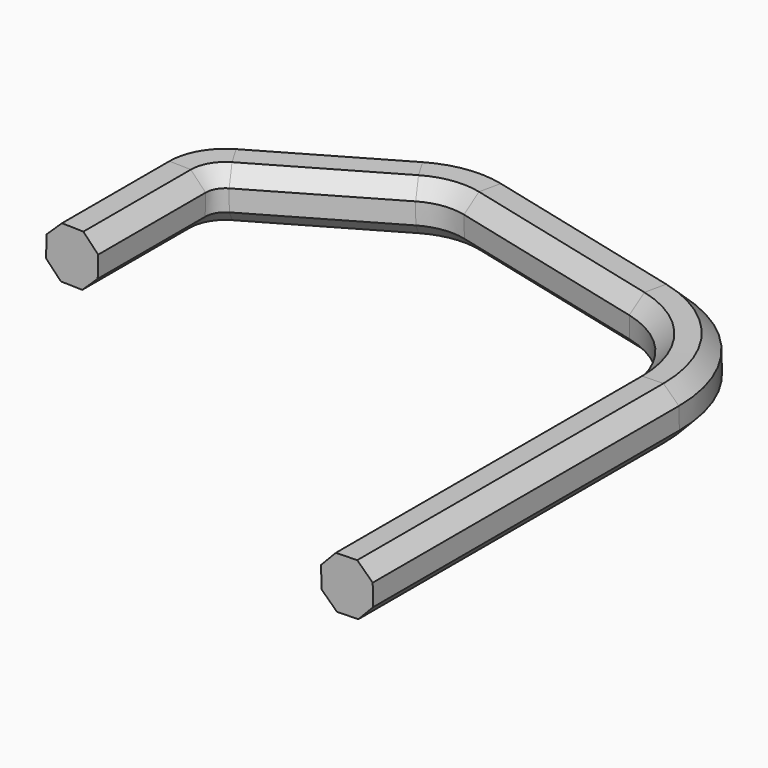
from build123d import *


with BuildPart() as f4:
    # F4: sweep along a path in F3
    with BuildLine(Plane.XY) as f4_path:
        Line((0, 0), (0, 80.965072))
        ThreePointArc((0, 80.965072), (3.694648, 94.767372), (13.790445, 104.878196))
        Line((13.790445, 104.878196), (90.642227, 149.35026))
        ThreePointArc((90.642227, 149.35026), (109.049982, 155.691782), (128.491208, 154.6434))
        Line((128.491208, 154.6434), (253.323111, 123.207707))
        ThreePointArc((253.323111, 123.207707), (294.816529, 96.15753), (310.915058, 49.314674))
        Line((310.915058, 49.314674), (310.915058, -181.424757))
    # F2 (on Front) → F4 (sweep)
    with BuildSketch(Plane.XZ):
        Polygon((-6.112554, 15.701641), (-15.424966, 6.780508), (-15.701641, -6.112554), (-6.780508, -15.424966), (6.112554, -15.701641), (15.424966, -6.780508), (15.701641, 6.112554), (6.780508, 15.424966), align=None)
    sweep(path=f4_path.line)


solid = f4.part
